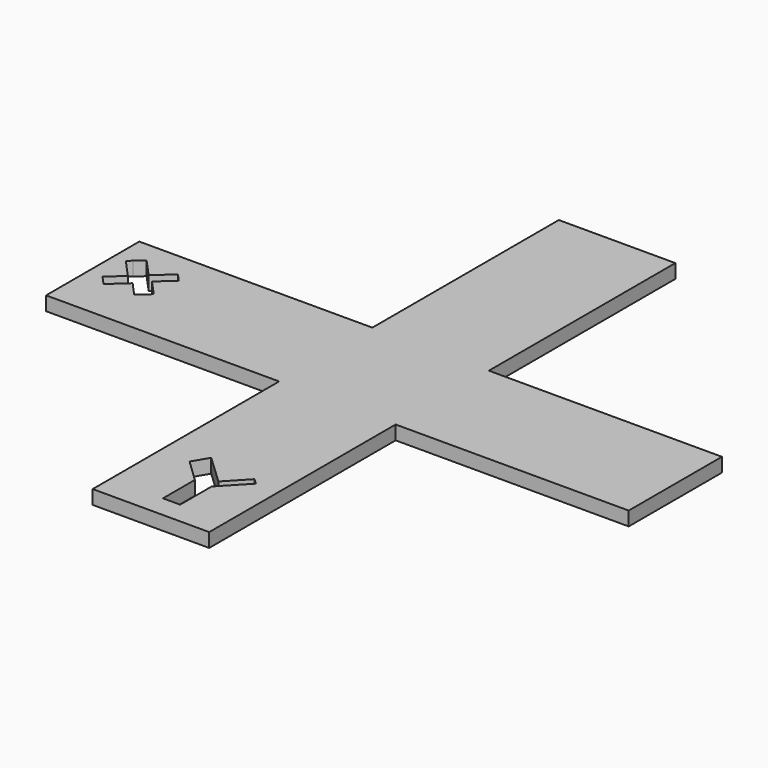
from build123d import *

# Parameters (mm, degrees)
F0_W     = 20
F0_H     = 10
F0_W_2   = 10
F0_H_2   = 20
F1_DEPTH = 1.2


with BuildPart() as f1:
    # F0 (on Top) → F1 (new body)
    with BuildSketch(Plane.XY):
        with Locations((-15, 0)):
            Rectangle(F0_W, F0_H)
        Polygon((-23.952800427, 2.2430510182), (-23.6059203744, 2.5555547327), (-22.9180995375, 3.1808458734), (-21.4581449046, 1.5748944182), (-20.0015842271, 2.899039368), (-19.379123235, 2.2143316973), (-20.7127477867, 1.0019467672), (-19.4734830842, -0.3612455592), (-20.4429661396, -1.2425930456), (-21.572595225, 0), (-23.0182641957, -1.3142434066), (-23.7418717627, -0.5182744093), (-22.4829424203, 0.6262058426), align=None, mode=Mode.SUBTRACT)
        Rectangle(F0_W_2, F0_H)
        with Locations((15, 0)):
            Rectangle(F0_W, F0_H)
        with Locations((0, 15)):
            Rectangle(F0_W_2, F0_H_2)
        with Locations((0, -15)):
            Rectangle(F0_W_2, F0_H_2)
        Polygon((-0.4832326085, -19.6910500526), (-2.4245390669, -17.8273953497), (-1.6327861698, -16.4912146452), (0.8914793769, -18.8802530514), (2.5726677996, -17.1039040391), (3.0499449931, -17.5556130707), (0.9921601741, -19.7298750281), (0.9921601741, -23.1077484787), (-0.4832326085, -23.1077484787), align=None, mode=Mode.SUBTRACT)
    extrude(amount=F1_DEPTH)


solid = f1.part
